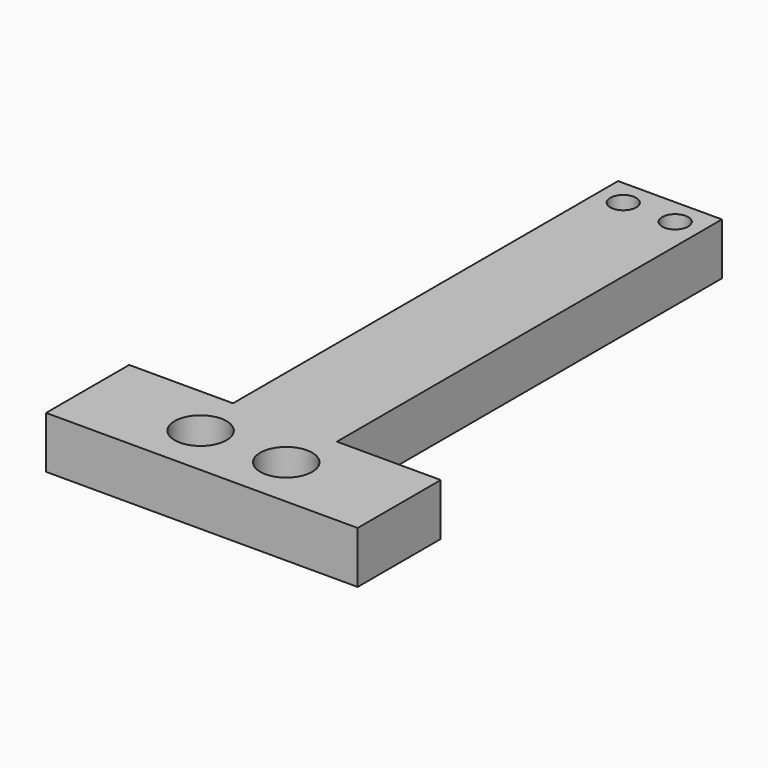
from build123d import *

# Parameters (mm, degrees)
F0_R     = 6.35
F0_W     = 25.4
F0_H     = 117.7036
F0_R_2   = 3.175
F1_DEPTH = 12.7


with BuildPart() as f1:
    # F0 (on Top) → F1 (new body)
    with BuildSketch(Plane.XY):
        Polygon((38.1, -12.7), (38.1, 12.7), (12.7, 12.7), (-12.7, 12.7), (-38.1, 12.7), (-38.1, -12.7), align=None)
        with Locations((-10.4775, 0)):
            Circle(F0_R, mode=Mode.SUBTRACT)
        with Locations((10.4775, 0)):
            Circle(F0_R, mode=Mode.SUBTRACT)
        with Locations((0, 71.5518)):
            Rectangle(F0_W, F0_H)
        with Locations((-6.35, 124.0536)):
            Circle(F0_R_2, mode=Mode.SUBTRACT)
        with Locations((6.35, 124.0536)):
            Circle(F0_R_2, mode=Mode.SUBTRACT)
    extrude(amount=F1_DEPTH)


solid = f1.part
